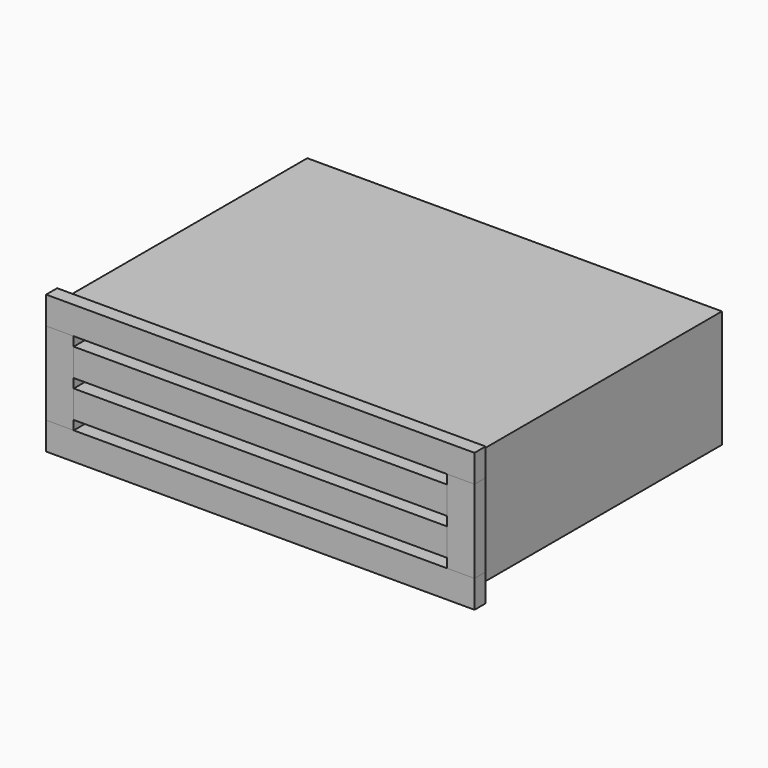
from build123d import *

# Parameters (mm, degrees)
F0_W     = 762
F0_H     = 215.9
F1_DEPTH = 558.8
F3_DEPTH = 25.4
F2_W     = 12.7
F2_H     = 152.4
F4_DEPTH = 25.4
F2_W_2   = 685.8
F2_H_2   = 50.8
F5_DEPTH = 25.4
F6_DEPTH = 25.4
F7_DEPTH = 25.4
F8_DEPTH = 25.4


with BuildPart() as f1:
    # F0 (on Front) → F1 (new body)
    with BuildSketch(Plane.XZ):
        with Locations((387.35, 158.75)):
            Rectangle(F0_W, F0_H)
    extrude(amount=-F1_DEPTH)


with BuildPart() as f3:
    # F2 (on face) → F3 (new body)
    with BuildSketch(Plane.XZ):
        Polygon((-6.35, 228.6), (6.35, 228.6), (6.35, 266.7), (768.35, 266.7), (768.35, 228.6), (781.05, 228.6), (781.05, 279.4), (-6.35, 279.4), align=None)
        Polygon((6.35, 228.6), (44.45, 228.6), (730.25, 228.6), (768.35, 228.6), (768.35, 266.7), (6.35, 266.7), align=None)
    extrude(amount=F3_DEPTH)


with BuildPart() as f4:
    # F2 (on face) → F4 (new body)
    with BuildSketch(Plane.XZ):
        with Locations((774.7, 152.4)):
            Rectangle(F2_W, F2_H)
        Polygon((768.35, 228.6), (730.25, 228.6), (730.25, 211.666667), (730.25, 160.866667), (730.25, 143.933333), (730.25, 93.133333), (730.25, 76.2), (768.35, 76.2), align=None)
    extrude(amount=F4_DEPTH)


with BuildPart() as f5:
    # F2 (on face) → F5 (new body)
    with BuildSketch(Plane.XZ):
        with Locations((387.35, 186.266667)):
            Rectangle(F2_W_2, F2_H_2)
    extrude(amount=F5_DEPTH)


with BuildPart() as f6:
    # F2 (on face) → F6 (new body)
    with BuildSketch(Plane.XZ):
        with Locations((387.35, 118.533333)):
            Rectangle(F2_W_2, F2_H_2)
    extrude(amount=F6_DEPTH)


with BuildPart() as f7:
    # F2 (on face) → F7 (new body)
    with BuildSketch(Plane.XZ):
        Polygon((6.35, 50.8), (6.35, 76.2), (-6.35, 76.2), (-6.35, 25.4), (781.05, 25.4), (781.05, 76.2), (768.35, 76.2), (768.35, 50.8), align=None)
        Polygon((44.45, 76.2), (6.35, 76.2), (6.35, 50.8), (768.35, 50.8), (768.35, 76.2), (730.25, 76.2), align=None)
    extrude(amount=F7_DEPTH)


with BuildPart() as f8:
    # F2 (on face) → F8 (new body)
    with BuildSketch(Plane.XZ):
        Polygon((44.45, 211.666667), (44.45, 228.6), (6.35, 228.6), (6.35, 76.2), (44.45, 76.2), (44.45, 93.133333), (44.45, 143.933333), (44.45, 160.866667), align=None)
        with Locations((0, 152.4)):
            Rectangle(F2_W, F2_H)
    extrude(amount=F8_DEPTH)


solid = Compound([f1.part, f3.part, f4.part, f5.part, f6.part, f7.part, f8.part])
